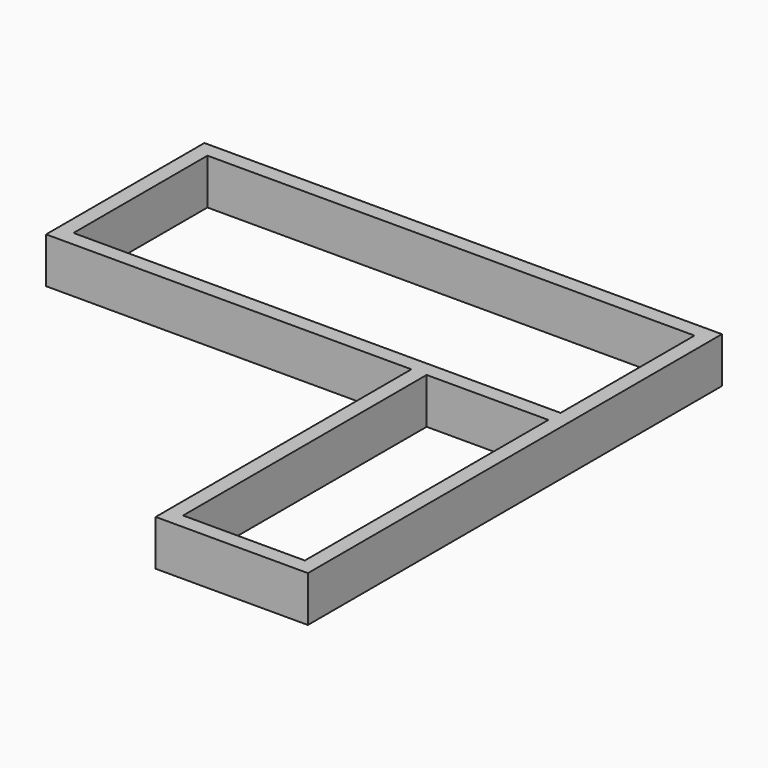
from build123d import *

# Parameters (mm, degrees)
F0_W     = 50.8
F0_H     = 558.8
F0_H_2   = 1016
F1_DEPTH = 152.4


with BuildPart() as f1:
    # F0 (on Top) → F1 (new body)
    with BuildSketch(Plane.XY):
        Polygon((1727.2, 0), (0, 0), (0, -50.8), (50.8, -50.8), (1676.4, -50.8), (1727.2, -50.8), align=None)
        Polygon((1727.2, -1676.4), (1727.2, -50.8), (1676.4, -50.8), (1676.4, -609.6), (1676.4, -660.4), (1676.4, -1676.4), align=None)
        with Locations((25.4, -330.2)):
            Rectangle(F0_W, F0_H)
        Polygon((50.8, -609.6), (0, -609.6), (0, -660.4), (1219.2, -660.4), (1270, -660.4), (1676.4, -660.4), (1676.4, -609.6), align=None)
        Polygon((1727.2, -1727.2), (1727.2, -1676.4), (1676.4, -1676.4), (1270, -1676.4), (1219.2, -1676.4), (1219.2, -1727.2), align=None)
        with Locations((1244.6, -1168.4)):
            Rectangle(F0_W, F0_H_2)
    extrude(amount=-F1_DEPTH)


solid = f1.part
